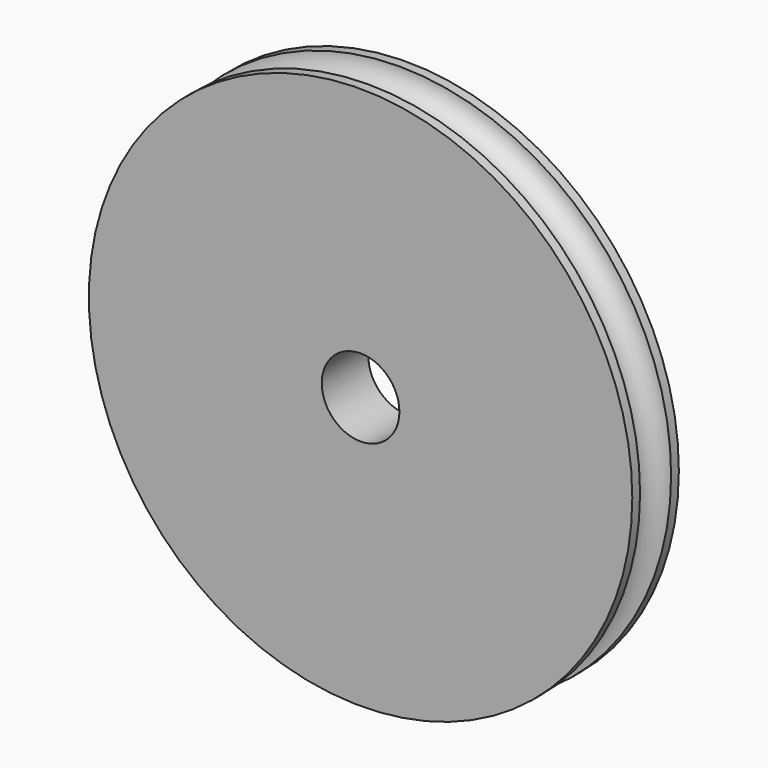
from build123d import *

# Parameters (mm, degrees)
F0_R     = 22.225
F0_R_2   = 3.175
F1_DEPTH = 4.7625
F2_R     = 1.5875


with BuildPart() as f1:
    # F0 (on Front) → F1 (new body)
    with BuildSketch(Plane.XZ):
        Circle(F0_R)
        Circle(F0_R_2, mode=Mode.SUBTRACT)
    extrude(amount=F1_DEPTH)

    # F2 (on Right) → F3 (revolve, cut)
    with BuildSketch(Plane.YZ):
        with Locations((-2.38125, 22.225)):
            Circle(F2_R)
    revolve(axis=Axis((0, -4.7625, 0), (0, -1, 0)), mode=Mode.SUBTRACT)


solid = f1.part
